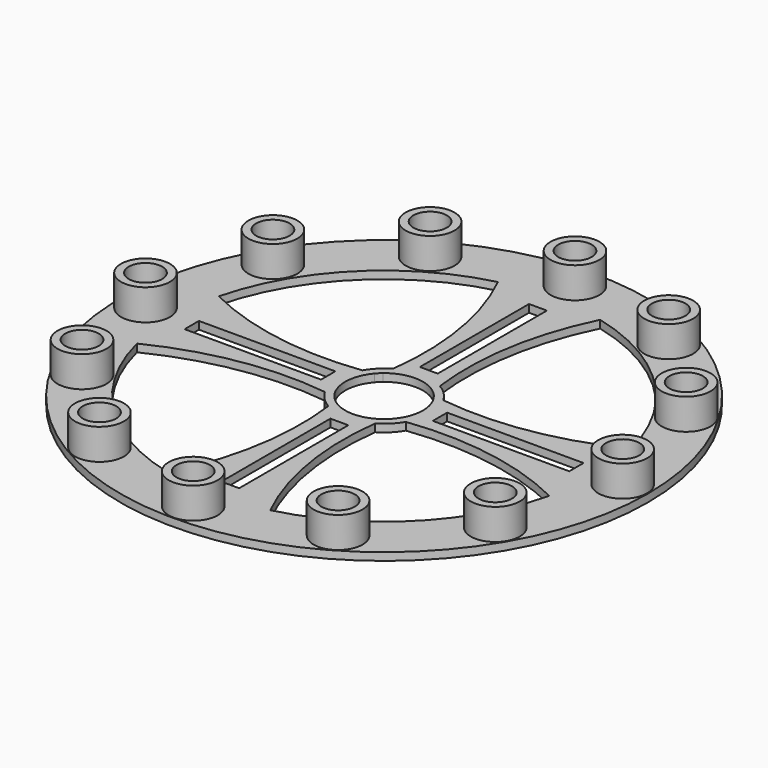
from build123d import *

# Parameters (mm, degrees)
F0_R     = 102.5
F0_R_2   = 9.5
F0_W     = 52.984908
F0_H     = 6.946532
F0_W_2   = 6.946532
F0_H_2   = 52.984908
F1_DEPTH = 3
F0_R_3   = 6.5
F2_DEPTH = 15
F3_DEPTH = 2


with BuildPart() as f1:
    # F0 (on Top) → F1 (new body)
    with BuildSketch(Plane.XY):
        Circle(F0_R)
        with Locations((-46.328817, -80.243864)):
            Circle(F0_R_2, mode=Mode.SUBTRACT)
        with Locations((-80.243864, -46.328817)):
            Circle(F0_R_2, mode=Mode.SUBTRACT)
        with Locations((0, -92.657633)):
            Circle(F0_R_2, mode=Mode.SUBTRACT)
        with Locations((46.328817, -80.243864)):
            Circle(F0_R_2, mode=Mode.SUBTRACT)
        with Locations((80.243864, -46.328817)):
            Circle(F0_R_2, mode=Mode.SUBTRACT)
        with Locations((-92.657633, 0)):
            Circle(F0_R_2, mode=Mode.SUBTRACT)
        with Locations((-80.243864, 46.328817)):
            Circle(F0_R_2, mode=Mode.SUBTRACT)
        with Locations((-46.328817, 80.243864)):
            Circle(F0_R_2, mode=Mode.SUBTRACT)
        with BuildLine():
            ThreePointArc((80.074814, 19.856338), (81.891459, 10.001946), (82.5, 0))
            ThreePointArc((82.5, 0), (81.891459, -10.001946), (80.074814, -19.856338))
            ThreePointArc((80.074814, -19.856338), (58.336309, -58.336309), (19.856338, -80.074814))
            ThreePointArc((19.856338, -80.074814), (0, -82.5), (-19.856338, -80.074814))
            ThreePointArc((-19.856338, -80.074814), (-58.336309, -58.336309), (-80.074814, -19.856338))
            ThreePointArc((-80.074814, -19.856338), (-82.5, 0), (-80.074814, 19.856338))
            ThreePointArc((-80.074814, 19.856338), (-58.336309, 58.336309), (-19.856338, 80.074814))
            ThreePointArc((-19.856338, 80.074814), (0, 82.5), (19.856338, 80.074814))
            ThreePointArc((19.856338, 80.074814), (58.336309, 58.336309), (80.074814, 19.856338))
        make_face(mode=Mode.SUBTRACT)
        with Locations((92.657633, 0)):
            Circle(F0_R_2, mode=Mode.SUBTRACT)
        with Locations((80.243864, 46.328817)):
            Circle(F0_R_2, mode=Mode.SUBTRACT)
        with Locations((0, 92.657633)):
            Circle(F0_R_2, mode=Mode.SUBTRACT)
        with Locations((46.328817, 80.243864)):
            Circle(F0_R_2, mode=Mode.SUBTRACT)
        with Locations((-48.197031, 0)):
            Rectangle(F0_W, F0_H)
        with BuildLine():
            ThreePointArc((-15.717052, 9.093692), (-48.690174, 9.725664), (-80.074814, 19.856338))
            ThreePointArc((-80.074814, 19.856338), (-82.5, 0), (-80.074814, -19.856338))
            ThreePointArc((-80.074814, -19.856338), (-48.690174, -9.725664), (-15.717052, -9.093692))
            ThreePointArc((-15.717052, -9.093692), (-18.15822, 0), (-15.717052, 9.093692))
        make_face()
        with Locations((-48.197031, 0)):
            Rectangle(F0_W, F0_H, mode=Mode.SUBTRACT)
        with BuildLine():
            ThreePointArc((-11.569649, 9.703259), (-13.640522, 9.379231), (-15.717052, 9.093692))
            ThreePointArc((-15.717052, 9.093692), (-18.15822, 0), (-15.717052, -9.093692))
            ThreePointArc((-15.717052, -9.093692), (-13.640522, -9.379231), (-11.569649, -9.703259))
            ThreePointArc((-11.569649, -9.703259), (-15.1, 0), (-11.569649, 9.703259))
        make_face()
        with BuildLine():
            ThreePointArc((-9.703259, 11.569649), (-9.379231, 13.640522), (-9.093692, 15.717052))
            ThreePointArc((-9.093692, 15.717052), (-12.8398, 12.8398), (-15.717052, 9.093692))
            ThreePointArc((-15.717052, 9.093692), (-13.640522, 9.379231), (-11.569649, 9.703259))
            ThreePointArc((-11.569649, 9.703259), (-10.677312, 10.677312), (-9.703259, 11.569649))
        make_face()
        with BuildLine():
            ThreePointArc((9.703259, 11.569649), (9.379231, 13.640522), (9.093692, 15.717052))
            ThreePointArc((9.093692, 15.717052), (0, 18.15822), (-9.093692, 15.717052))
            ThreePointArc((-9.093692, 15.717052), (-9.379231, 13.640522), (-9.703259, 11.569649))
            ThreePointArc((-9.703259, 11.569649), (0, 15.1), (9.703259, 11.569649))
        make_face()
        with BuildLine():
            ThreePointArc((11.569649, 9.703259), (13.640522, 9.379231), (15.717052, 9.093692))
            ThreePointArc((15.717052, 9.093692), (12.8398, 12.8398), (9.093692, 15.717052))
            ThreePointArc((9.093692, 15.717052), (9.379231, 13.640522), (9.703259, 11.569649))
            ThreePointArc((9.703259, 11.569649), (10.677312, 10.677312), (11.569649, 9.703259))
        make_face()
        with BuildLine():
            ThreePointArc((18.15822, 0), (17.537312, 4.707827), (15.717052, 9.093692))
            ThreePointArc((15.717052, 9.093692), (13.640522, 9.379231), (11.569649, 9.703259))
            ThreePointArc((11.569649, 9.703259), (14.189991, 5.162766), (15.1, 0))
            ThreePointArc((15.1, 0), (14.189991, -5.162766), (11.569649, -9.703259))
            ThreePointArc((11.569649, -9.703259), (13.640522, -9.379231), (15.717052, -9.093692))
            ThreePointArc((15.717052, -9.093692), (17.537312, -4.707827), (18.15822, 0))
        make_face()
        with BuildLine():
            ThreePointArc((80.074814, -19.856338), (81.891459, -10.001946), (82.5, 0))
            ThreePointArc((82.5, 0), (81.891459, 10.001946), (80.074814, 19.856338))
            ThreePointArc((80.074814, 19.856338), (48.690174, 9.725664), (15.717052, 9.093692))
            ThreePointArc((15.717052, 9.093692), (17.537312, 4.707827), (18.15822, 0))
            ThreePointArc((18.15822, 0), (17.537312, -4.707827), (15.717052, -9.093692))
            ThreePointArc((15.717052, -9.093692), (48.690174, -9.725664), (80.074814, -19.856338))
        make_face()
        with Locations((48.197031, 0)):
            Rectangle(F0_W, F0_H, mode=Mode.SUBTRACT)
        with BuildLine():
            ThreePointArc((-19.856338, -80.074814), (0, -82.5), (19.856338, -80.074814))
            ThreePointArc((19.856338, -80.074814), (9.725664, -48.690174), (9.093692, -15.717052))
            ThreePointArc((9.093692, -15.717052), (0, -18.15822), (-9.093692, -15.717052))
            ThreePointArc((-9.093692, -15.717052), (-9.725664, -48.690174), (-19.856338, -80.074814))
        make_face()
        with Locations((0, -48.197031)):
            Rectangle(F0_W_2, F0_H_2, mode=Mode.SUBTRACT)
        with BuildLine():
            ThreePointArc((-9.093692, -15.717052), (0, -18.15822), (9.093692, -15.717052))
            ThreePointArc((9.093692, -15.717052), (9.379231, -13.640522), (9.703259, -11.569649))
            ThreePointArc((9.703259, -11.569649), (0, -15.1), (-9.703259, -11.569649))
            ThreePointArc((-9.703259, -11.569649), (-9.379231, -13.640522), (-9.093692, -15.717052))
        make_face()
        with BuildLine():
            ThreePointArc((9.093692, -15.717052), (12.8398, -12.8398), (15.717052, -9.093692))
            ThreePointArc((15.717052, -9.093692), (13.640522, -9.379231), (11.569649, -9.703259))
            ThreePointArc((11.569649, -9.703259), (10.677312, -10.677312), (9.703259, -11.569649))
            ThreePointArc((9.703259, -11.569649), (9.379231, -13.640522), (9.093692, -15.717052))
        make_face()
        with BuildLine():
            ThreePointArc((-15.717052, -9.093692), (-12.8398, -12.8398), (-9.093692, -15.717052))
            ThreePointArc((-9.093692, -15.717052), (-9.379231, -13.640522), (-9.703259, -11.569649))
            ThreePointArc((-9.703259, -11.569649), (-10.677312, -10.677312), (-11.569649, -9.703259))
            ThreePointArc((-11.569649, -9.703259), (-13.640522, -9.379231), (-15.717052, -9.093692))
        make_face()
        with BuildLine():
            ThreePointArc((9.093692, 15.717052), (9.725664, 48.690174), (19.856338, 80.074814))
            ThreePointArc((19.856338, 80.074814), (0, 82.5), (-19.856338, 80.074814))
            ThreePointArc((-19.856338, 80.074814), (-9.725664, 48.690174), (-9.093692, 15.717052))
            ThreePointArc((-9.093692, 15.717052), (0, 18.15822), (9.093692, 15.717052))
        make_face()
        with Locations((0, 48.197031)):
            Rectangle(F0_W_2, F0_H_2, mode=Mode.SUBTRACT)
    extrude(amount=F1_DEPTH)

    # F0 (on Top) → F2 (join)
    with BuildSketch(Plane.XY):
        with Locations((80.243864, 46.328817)):
            Circle(F0_R_2)
        with Locations((80.243864, 46.328817)):
            Circle(F0_R_3, mode=Mode.SUBTRACT)
        with Locations((92.657633, 0)):
            Circle(F0_R_2)
        with Locations((92.657633, 0)):
            Circle(F0_R_3, mode=Mode.SUBTRACT)
        with Locations((80.243864, -46.328817)):
            Circle(F0_R_2)
        with Locations((80.243864, -46.328817)):
            Circle(F0_R_3, mode=Mode.SUBTRACT)
        with Locations((46.328817, -80.243864)):
            Circle(F0_R_2)
        with Locations((46.328817, -80.243864)):
            Circle(F0_R_3, mode=Mode.SUBTRACT)
        with Locations((0, -92.657633)):
            Circle(F0_R_2)
        with Locations((0, -92.657633)):
            Circle(F0_R_3, mode=Mode.SUBTRACT)
        with Locations((-46.328817, -80.243864)):
            Circle(F0_R_2)
        with Locations((-46.328817, -80.243864)):
            Circle(F0_R_3, mode=Mode.SUBTRACT)
        with Locations((-80.243864, -46.328817)):
            Circle(F0_R_2)
        with Locations((-80.243864, -46.328817)):
            Circle(F0_R_3, mode=Mode.SUBTRACT)
        with Locations((-92.657633, 0)):
            Circle(F0_R_2)
        with Locations((-92.657633, 0)):
            Circle(F0_R_3, mode=Mode.SUBTRACT)
        with Locations((-80.243864, 46.328817)):
            Circle(F0_R_2)
        with Locations((-80.243864, 46.328817)):
            Circle(F0_R_3, mode=Mode.SUBTRACT)
        with Locations((46.328817, 80.243864)):
            Circle(F0_R_2)
        with Locations((46.328817, 80.243864)):
            Circle(F0_R_3, mode=Mode.SUBTRACT)
        with Locations((0, 92.657633)):
            Circle(F0_R_2)
        with Locations((0, 92.657633)):
            Circle(F0_R_3, mode=Mode.SUBTRACT)
        with Locations((-46.328817, 80.243864)):
            Circle(F0_R_2)
        with Locations((-46.328817, 80.243864)):
            Circle(F0_R_3, mode=Mode.SUBTRACT)
    extrude(amount=F2_DEPTH)

    # F0 (on Top) → F3 (join)
    with BuildSketch(Plane.XY):
        with Locations((0, 92.657633)):
            Circle(F0_R_3)
        with Locations((46.328817, 80.243864)):
            Circle(F0_R_3)
        with Locations((80.243864, 46.328817)):
            Circle(F0_R_3)
        with Locations((92.657633, 0)):
            Circle(F0_R_3)
        with Locations((80.243864, -46.328817)):
            Circle(F0_R_3)
        with Locations((46.328817, -80.243864)):
            Circle(F0_R_3)
        with Locations((0, -92.657633)):
            Circle(F0_R_3)
        with Locations((-46.328817, -80.243864)):
            Circle(F0_R_3)
        with Locations((-80.243864, -46.328817)):
            Circle(F0_R_3)
        with Locations((-92.657633, 0)):
            Circle(F0_R_3)
        with Locations((-80.243864, 46.328817)):
            Circle(F0_R_3)
        with Locations((-46.328817, 80.243864)):
            Circle(F0_R_3)
    extrude(amount=F3_DEPTH)


solid = f1.part
